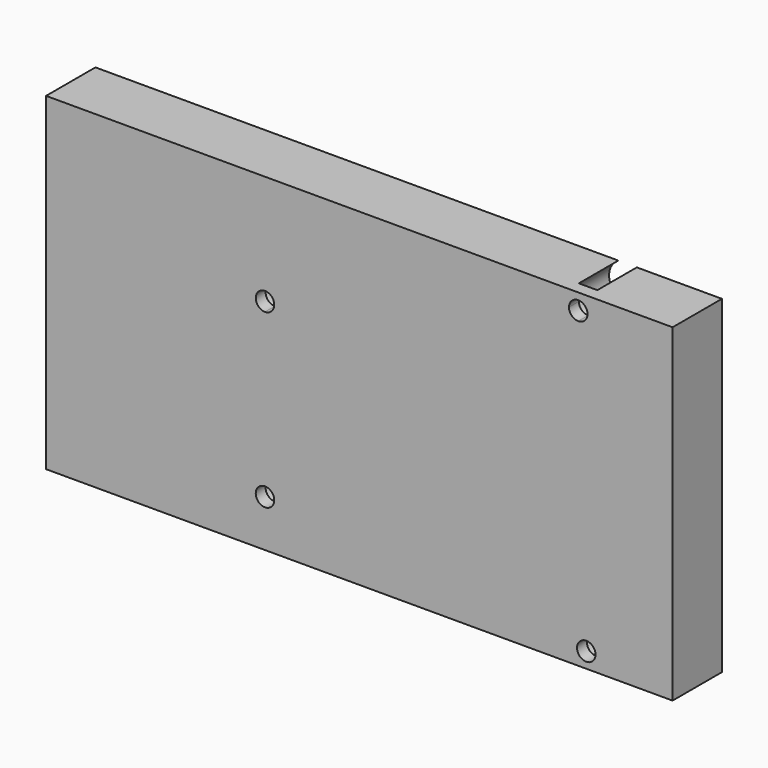
from build123d import *

# Parameters (mm, degrees)
F1_DEPTH = 10
F2_R     = 3
F3_DEPTH = 8


with BuildPart() as f1:
    # F0 (on Front) → F1 (new body)
    with BuildSketch(Plane.XZ):
        with BuildLine():
            ThreePointArc((-13.8, -19.05), (-14.23934, -17.98934), (-15.3, -17.55))
            ThreePointArc((-15.3, -17.55), (-16.36066, -20.11066), (-13.8, -19.05))
        make_face()
        Polygon((50.8, 26.65), (-50.8, 26.65), (-50.8, -26.65), (50.8, -26.65), (50.8, -24.15), align=None)
        with BuildLine():
            ThreePointArc((-13.8, -19.05), (-16.36066, -20.11066), (-15.3, -17.55))
            ThreePointArc((-15.3, -17.55), (-14.23934, -17.98934), (-13.8, -19.05))
        make_face(mode=Mode.SUBTRACT)
        with BuildLine():
            ThreePointArc((35.5, -23.401669), (37.187298, -22.700862), (38.3, -24.15))
            ThreePointArc((38.3, -24.15), (36.412702, -25.599138), (35.5, -23.401669))
        make_face(mode=Mode.SUBTRACT)
        with BuildLine():
            ThreePointArc((-15.3, 7.35), (-16.8, 8.85), (-15.3, 10.35))
            ThreePointArc((-15.3, 10.35), (-14.23934, 9.91066), (-13.8, 8.85))
            ThreePointArc((-13.8, 8.85), (-14.23934, 7.78934), (-15.3, 7.35))
        make_face(mode=Mode.SUBTRACT)
        with BuildLine():
            ThreePointArc((37, 24.05), (36.56066, 22.98934), (35.5, 22.55))
            ThreePointArc((35.5, 22.55), (34.43934, 22.98934), (34, 24.05))
            ThreePointArc((34, 24.05), (35.5, 25.55), (37, 24.05))
        make_face(mode=Mode.SUBTRACT)
    extrude(amount=F1_DEPTH)

    # F2 (on face) → F3 (cut)
    with BuildSketch(Plane(origin=(0, 0, 0), x_dir=(-1, 0, 0), z_dir=(0, 1, 0))):
        with Locations((-35.5, 24.05)):
            Circle(F2_R)
        with Locations((-36.8, -24.15)):
            Circle(F2_R)
        with Locations((15.3, -19.05)):
            Circle(F2_R)
        with Locations((15.3, 8.85)):
            Circle(F2_R)
    extrude(amount=-F3_DEPTH, mode=Mode.SUBTRACT)


solid = f1.part
